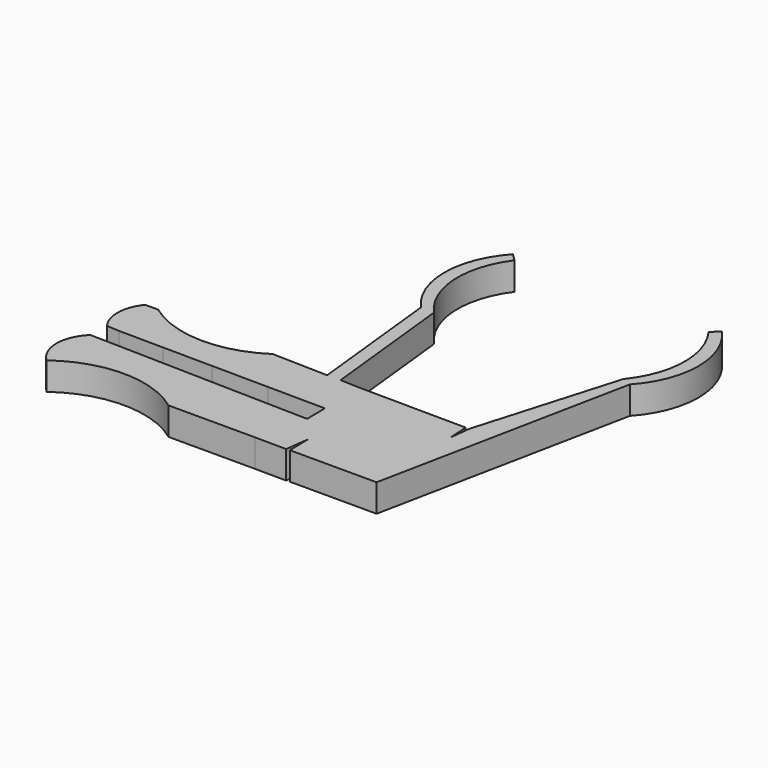
from build123d import *

# Parameters (mm, degrees)
F1_DEPTH = 8


with BuildPart() as f1:
    # F0 (on Top) → F1 (new body)
    with BuildSketch(Plane.XY):
        with BuildLine():
            ThreePointArc((-70.03285, -37.948392), (-52.458308, -32.127956), (-34.883766, -37.948392))
            Line((-34.883766, -37.948392), (-9.883766, -37.948392))
            Line((-9.883766, -37.948392), (-0.883766, -38.028492))
            Line((-0.883766, -38.028492), (0, -31.093238))
            Line((0, -31.093238), (0.116234, -37.948392))
            Line((0.116234, -37.948392), (25.116234, -37.948392))
            Line((25.116234, -37.948392), (39.830573, 34.923933))
            ThreePointArc((39.830573, 34.923933), (46.336291, 51.489003), (39.830573, 68.054073))
            Line((39.830573, 68.054073), (37.713583, 65.928431))
            ThreePointArc((37.713583, 65.928431), (42.512259, 50.879069), (37.052645, 36.05668))
            Line((37.052645, 36.05668), (25.116234, -4.600227))
            Line((25.116234, -4.600227), (24.46902, -10.52647))
            Line((24.46902, -10.52647), (24.116234, -4.600227))
            Line((24.116234, -4.600227), (-7.215796, -4.340492))
            Line((-7.215796, -4.340492), (-12.320204, -4.147834))
            Line((-12.320204, -4.147834), (-16.4932, 34.813486))
            ThreePointArc((-16.4932, 34.813486), (-23.005762, 50.054476), (-18.239336, 65.928431))
            Line((-18.239336, 65.928431), (-20.356327, 68.054073))
            ThreePointArc((-20.356327, 68.054073), (-26.862044, 51.489003), (-20.356327, 34.923933))
            Line((-20.356327, 34.923933), (-16.171501, -4.147834))
            Line((-16.171501, -4.147834), (-32.208605, -3.740894))
            ThreePointArc((-32.208605, -3.740894), (-49.168582, -8.625407), (-65.874815, -2.933215))
            Line((-65.874815, -2.933215), (-69.605039, -2.933215))
            ThreePointArc((-69.605039, -2.933215), (-72.080068, -9.569712), (-69.926133, -16.317262))
            Line((-69.926133, -16.317262), (-66.213985, -16.546538))
            Line((-66.213985, -16.546538), (-53.493048, -16.659755))
            Line((-53.493048, -16.659755), (-39.311232, -16.785973))
            Line((-39.311232, -16.785973), (-23.012012, -16.931036))
            Line((-23.012012, -16.931036), (-6.49416, -17.078044))
            Line((-6.49416, -17.078044), (-6.396832, -23.587506))
            Line((-6.396832, -23.587506), (-70.03285, -22.130423))
            ThreePointArc((-70.03285, -22.130423), (-73.462135, -30.039408), (-70.03285, -37.948392))
        make_face()
    extrude(amount=F1_DEPTH)


solid = f1.part
